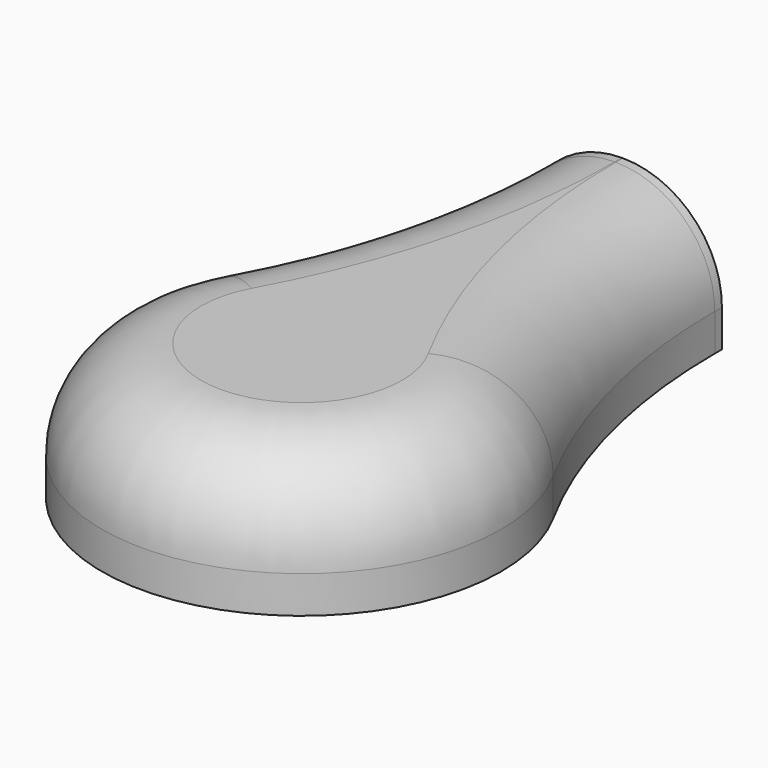
from build123d import *

# Parameters (mm, degrees)
F1_DEPTH = 550
F2_R     = 2500
F3_R     = 400


with BuildPart() as f1:
    # F0 (on Top) → F1 (new body)
    with BuildSketch(Plane.XY):
        with BuildLine():
            Line((0, 1620), (0, 698.7895697045))
            ThreePointArc((0, 698.7895697044), (402.0654375, 806.203125), (804.130875, 698.7895697044))
            Line((804.130875, 698.7895697044), (804.130875, 1620))
            Line((804.130875, 1620), (0, 1620))
        make_face()
        with BuildLine():
            Line((0, 698.7895697045), (0, 0))
            Line((0, 0), (804.130875, 0))
            Line((804.130875, 0), (804.130875, 698.7895697044))
            ThreePointArc((804.130875, 698.7895697044), (402.0654375, 806.203125), (0, 698.7895697044))
        make_face()
        with BuildLine():
            Line((804.130875, 0), (0, 0))
            Line((0, 0), (0, 698.7895697045))
            ThreePointArc((0, 698.7895697044), (-1.5538550225, -697.8932192416), (1208.2685625, 0))
            ThreePointArc((1208.2685625, 0), (1099.9586567416, 403.6192925225), (804.130875, 698.7895697044))
            Line((804.130875, 698.7895697044), (804.130875, 0))
        make_face()
    extrude(amount=F1_DEPTH)

    # F2
    f2_edges = [f1.edges().sort_by_distance(p)[0] for p in [
        (0, 698.78957, 275),
        (804.130875, 698.78957, 275),
    ]]
    fillet(f2_edges, radius=F2_R)

    # F3
    f3_edges = [f1.edges().sort_by_distance(p)[0] for p in [
        (881.732912, 965.928975, 550),
        (402.065437, -806.203125, 550),
        (-77.602037, 965.928975, 550),
    ]]
    fillet(f3_edges, radius=F3_R)


solid = f1.part
